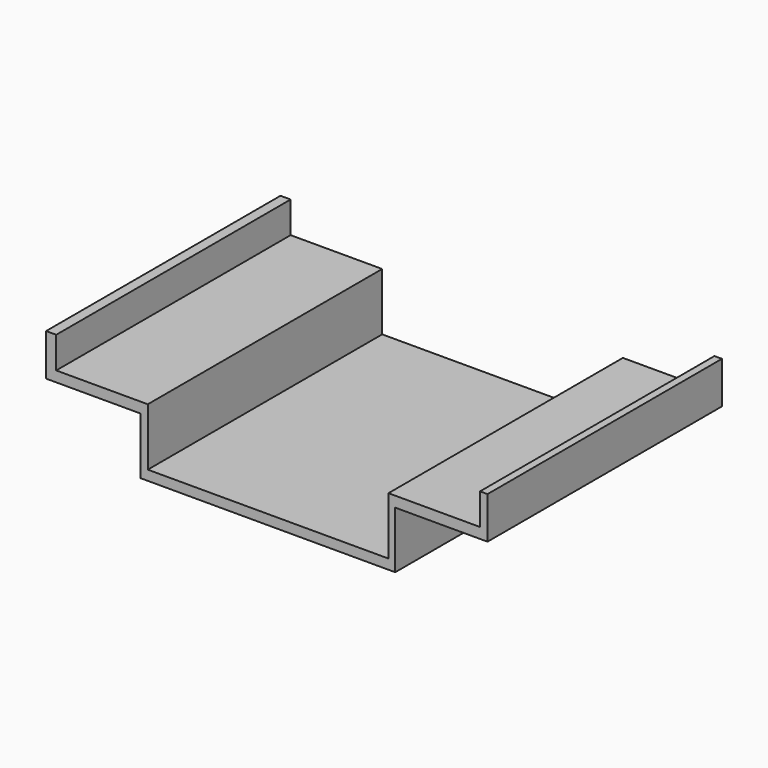
from build123d import *

# Parameters (mm, degrees)
F1_DEPTH = 2844.8


with BuildPart() as f1:
    # F0 (on Front) → F1 (new body)
    with BuildSketch(Plane.XZ):
        Polygon((2450.417958, -63.803792), (113.617958, -63.803792), (113.617958, 494.996208), (-775.382042, 494.996208), (-775.382042, 799.796208), (-873.811245, 799.796208), (-873.811245, 392.893642), (42.760264, 392.893642), (42.760264, -159.632564), (2515.967131, -159.632564), (2515.967131, 392.893642), (3412.056684, 392.893642), (3412.056684, 799.796208), (3339.417958, 799.796208), (3339.417958, 494.996208), (2450.417958, 494.996208), align=None)
    extrude(amount=-F1_DEPTH)


solid = f1.part
